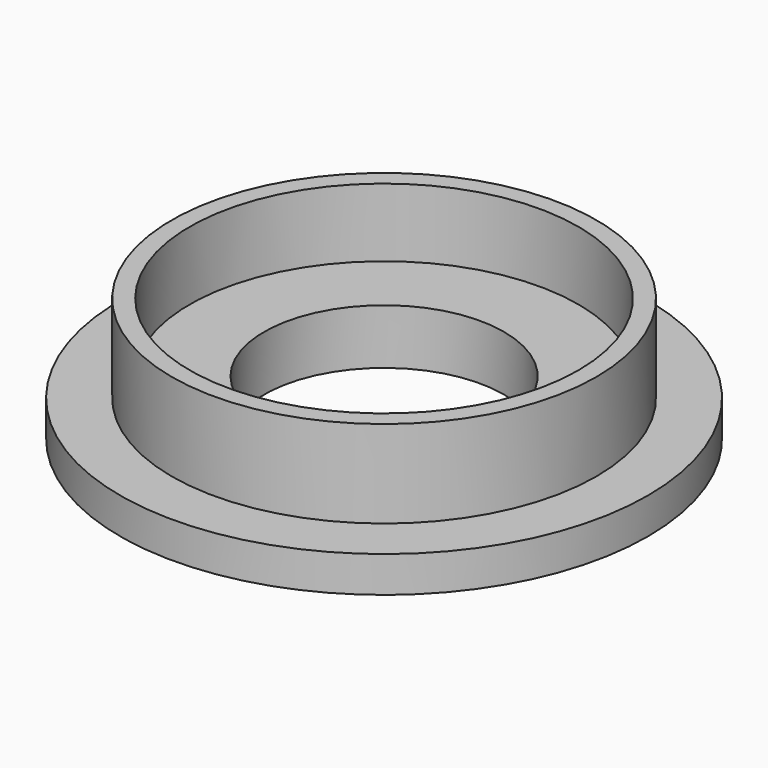
from build123d import *

# Parameters (mm, degrees)
F0_R     = 11
F0_R_2   = 8.85
F0_R_3   = 8.1
F0_R_4   = 5
F1_DEPTH = 1.5
F2_DEPTH = 2.65
F3_DEPTH = 1
F4_DEPTH = 0.8


with BuildPart() as f1:
    # F0 (on Top) → F1 (new body)
    with BuildSketch(Plane.XY):
        Circle(F0_R)
        Circle(F0_R_2, mode=Mode.SUBTRACT)
        Circle(F0_R_2)
        Circle(F0_R_3, mode=Mode.SUBTRACT)
        Circle(F0_R_3)
        Circle(F0_R_4, mode=Mode.SUBTRACT)
    extrude(amount=-F1_DEPTH)

    # F0 (on Top) → F2 (join)
    with BuildSketch(Plane.XY):
        Circle(F0_R_2)
        Circle(F0_R_3, mode=Mode.SUBTRACT)
    extrude(amount=F2_DEPTH)

    # F3 (add): a face of the model
    f3_faces = [f1.faces().sort_by_distance(p)[0] for p in [
        (-8.5996841995, 0, 2.65),
    ]]
    extrude(f3_faces, amount=F3_DEPTH)

    # F4 (add): a face of the model
    f4_faces = [f1.faces().sort_by_distance(p)[0] for p in [
        (-7.8708974029, 0, 0),
    ]]
    extrude(f4_faces, amount=F4_DEPTH)


solid = f1.part
